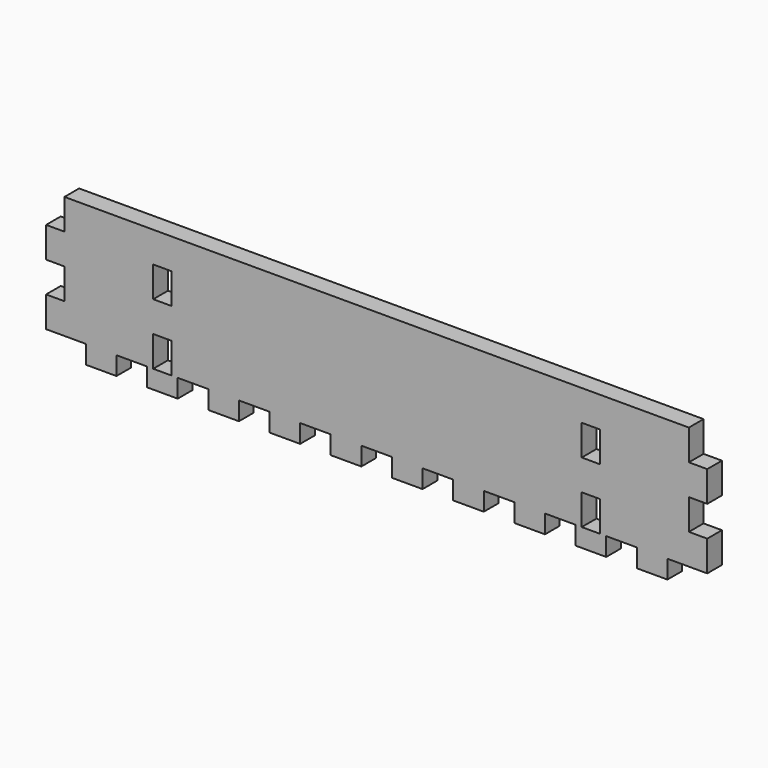
from build123d import *

# Parameters (mm, degrees)
F0_W     = 102
F0_H     = 40
F1_DEPTH = 3
F2_W     = 3
F2_H     = 5
F3_DEPTH = 3
F4_W     = 5
F4_H     = 3
F5_DEPTH = 3
F6_W     = 114.49237
F6_H     = 23.447346
F7_DEPTH = 25
F8_W     = 3
F8_H     = 5
F9_DEPTH = 25


with BuildPart() as f1:
    # F0 (on Front) → F1 (new body)
    with BuildSketch(Plane.XZ):
        Rectangle(F0_W, F0_H)
    extrude(amount=F1_DEPTH)

    # F2 (on face) → F3 (join)
    with BuildSketch(Plane.XZ.offset(3)):
        with Locations((-52.5, -17.5)):
            Rectangle(F2_W, F2_H)
        with Locations((-52.5, -7.5)):
            Rectangle(F2_W, F2_H)
        with Locations((-52.5, 2.5)):
            Rectangle(F2_W, F2_H)
        with Locations((-52.5, 12.5)):
            Rectangle(F2_W, F2_H)
        with Locations((52.5, -7.5)):
            Rectangle(F2_W, F2_H)
        with Locations((52.5, -17.5)):
            Rectangle(F2_W, F2_H)
        with Locations((52.5, 12.5)):
            Rectangle(F2_W, F2_H)
        with Locations((52.5, 2.5)):
            Rectangle(F2_W, F2_H)
    extrude(amount=-F3_DEPTH)

    # F4 (on face) → F5 (join)
    with BuildSketch(Plane.XZ.offset(3)):
        with Locations((5, -21.5)):
            Rectangle(F4_W, F4_H)
        with Locations((15, -21.5)):
            Rectangle(F4_W, F4_H)
        with Locations((25, -21.5)):
            Rectangle(F4_W, F4_H)
        with Locations((35, -21.5)):
            Rectangle(F4_W, F4_H)
        with Locations((45, -21.5)):
            Rectangle(F4_W, F4_H)
        with Locations((-25, -21.5)):
            Rectangle(F4_W, F4_H)
        with Locations((-15, -21.5)):
            Rectangle(F4_W, F4_H)
        with Locations((-5, -21.5)):
            Rectangle(F4_W, F4_H)
        with Locations((-35, -21.5)):
            Rectangle(F4_W, F4_H)
        with Locations((-45, -21.5)):
            Rectangle(F4_W, F4_H)
    extrude(amount=-F5_DEPTH)

    # F6 (on face) → F7 (cut)
    with BuildSketch(Plane.XZ.offset(3)):
        with Locations((3.246185, 11.723673)):
            Rectangle(F6_W, F6_H)
    extrude(amount=-F7_DEPTH, mode=Mode.SUBTRACT)

    # F8 (on face) → F9 (cut)
    with BuildSketch(Plane(origin=(0, 0, 0), x_dir=(-1, 0, 0), z_dir=(0, 1, 0))):
        with Locations((-35, -17.5)):
            Rectangle(F8_W, F8_H)
        with Locations((-35, -7.5)):
            Rectangle(F8_W, F8_H)
        with Locations((35, -7.5)):
            Rectangle(F8_W, F8_H)
        with Locations((35, -17.5)):
            Rectangle(F8_W, F8_H)
    extrude(amount=-F9_DEPTH, mode=Mode.SUBTRACT)


solid = f1.part
